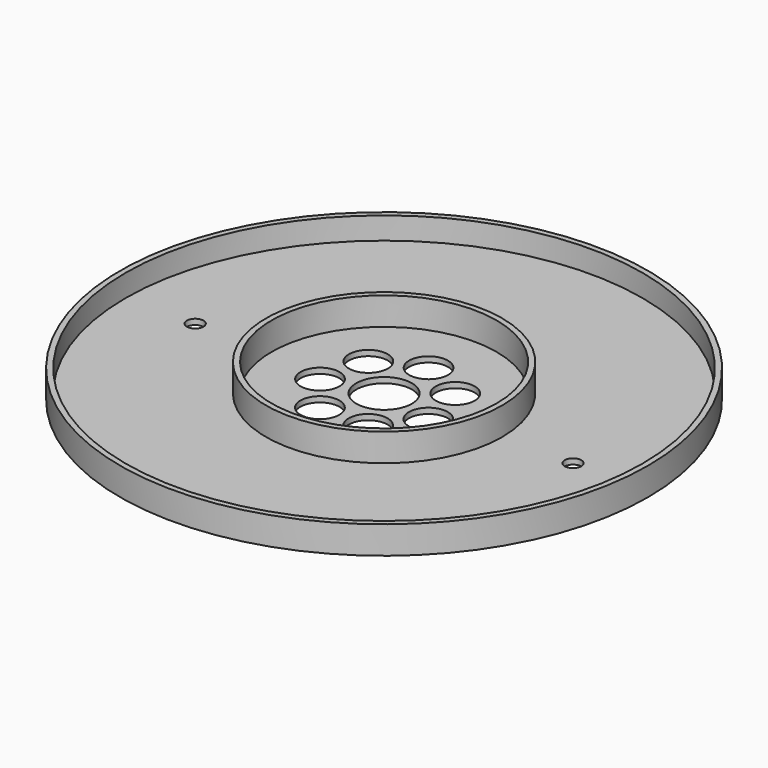
from build123d import *

# Parameters (mm, degrees)
F0_R     = 47.5
F1_DEPTH = 1
F2_R     = 47.5
F2_R_2   = 46.5
F3_DEPTH = 4
F4_R     = 21.25
F4_R_2   = 20.25
F5_DEPTH = 5
F6_R     = 3.5
F6_R_2   = 5
F7_DEPTH = 25
F8_R     = 1.5
F9_DEPTH = 25


with BuildPart() as f1:
    # F0 (on Top) → F1 (new body)
    with BuildSketch(Plane.XY):
        Circle(F0_R)
    extrude(amount=F1_DEPTH)

    # F2 (on face) → F3 (join)
    with BuildSketch(Plane.XY.offset(1)):
        Circle(F2_R)
        Circle(F2_R_2, mode=Mode.SUBTRACT)
    extrude(amount=F3_DEPTH)

    # F4 (on face) → F5 (join)
    with BuildSketch(Plane.XY.offset(1)):
        Circle(F4_R)
        Circle(F4_R_2, mode=Mode.SUBTRACT)
    extrude(amount=F5_DEPTH)

    # F6 (on face) → F7 (cut)
    with BuildSketch(Plane.XY.offset(1)):
        with Locations((-7.818315, 6.234898)):
            Circle(F6_R)
        with Locations((-9.749279, -2.225209)):
            Circle(F6_R)
        with Locations((-4.338837, -9.009689)):
            Circle(F6_R)
        with Locations((4.338837, -9.009689)):
            Circle(F6_R)
        with Locations((9.749279, -2.225209)):
            Circle(F6_R)
        with Locations((7.818315, 6.234898)):
            Circle(F6_R)
        with Locations((0, 10)):
            Circle(F6_R)
        Circle(F6_R_2)
    extrude(amount=-F7_DEPTH, mode=Mode.SUBTRACT)

    # F8 (on face) → F9 (cut)
    with BuildSketch(Plane.XY.offset(1)):
        with Locations((-34, 0)):
            Circle(F8_R)
        with Locations((34, 0)):
            Circle(F8_R)
    extrude(amount=-F9_DEPTH, mode=Mode.SUBTRACT)


with BuildPart() as f10_1:
    # F10: copy of F1
    add(f1.part)


solid = f1.part
